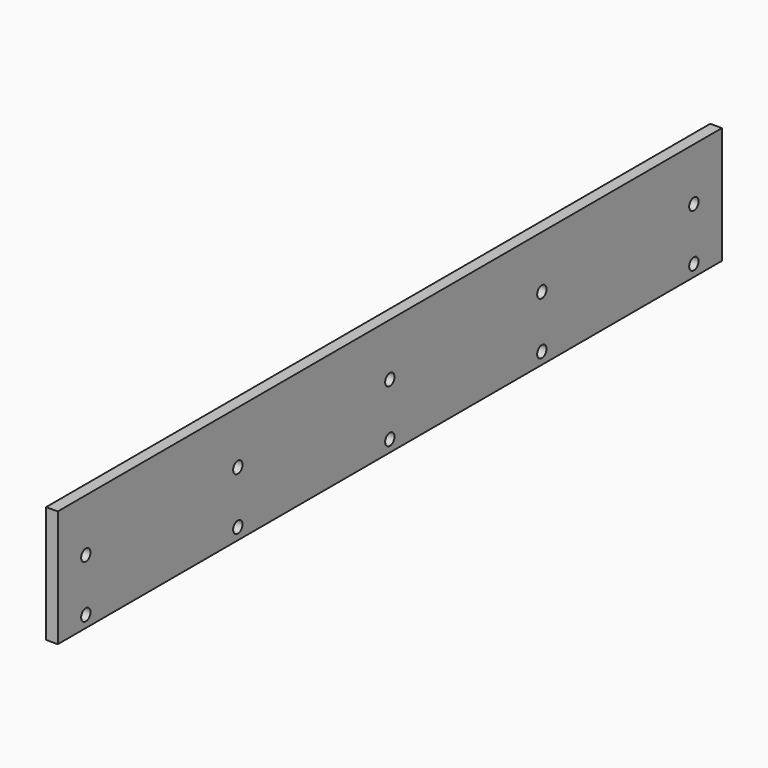
from build123d import *

# Parameters (mm, degrees)
F0_W     = 10
F0_H     = 100
F1_DEPTH = 710
F2_R     = 5
F3_DEPTH = 25


with BuildPart() as f1:
    # F0 (on Front) → F1 (new body)
    with BuildSketch(Plane.XZ):
        Rectangle(F0_W, F0_H)
    extrude(amount=F1_DEPTH)

    # F2 (on face) → F3 (cut)
    with BuildSketch(Plane.YZ.offset(5)):
        with Locations((-680, 5)):
            Circle(F2_R)
        with Locations((-680, -40)):
            Circle(F2_R)
        with Locations((-355, 5)):
            Circle(F2_R)
        with Locations((-355, -40)):
            Circle(F2_R)
        with Locations((-517.5, 5)):
            Circle(F2_R)
        with Locations((-517.5, -40)):
            Circle(F2_R)
        with Locations((-192.5, -40)):
            Circle(F2_R)
        with Locations((-192.5, 5)):
            Circle(F2_R)
        with Locations((-30, 5)):
            Circle(F2_R)
        with Locations((-30, -40)):
            Circle(F2_R)
    extrude(amount=-F3_DEPTH, mode=Mode.SUBTRACT)


solid = f1.part
